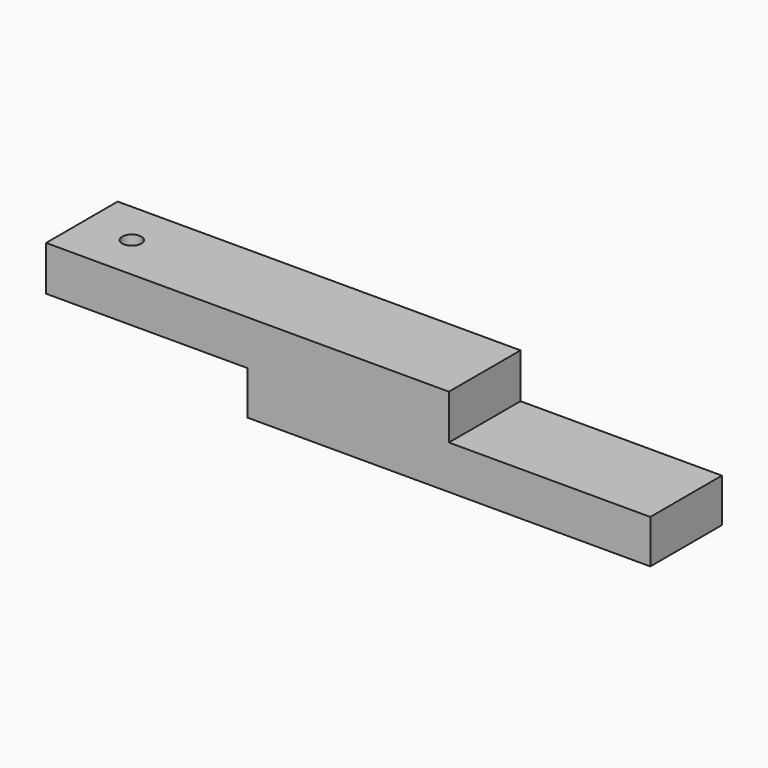
from build123d import *

# Parameters (mm, degrees)
F1_DEPTH = 12.7
F2_R     = 1.353731
F3_DEPTH = 50.8


with BuildPart() as f1:
    # F0 (on Front) → F1 (new body)
    with BuildSketch(Plane.XZ):
        Polygon((38.97683, 29.645005), (-18.17317, 29.645005), (-18.17317, 23.295005), (10.40183, 23.295005), (38.97683, 23.295005), align=None)
        Polygon((67.55183, 23.295005), (38.97683, 23.295005), (10.40183, 23.295005), (10.40183, 17.107827), (67.55183, 17.107827), align=None)
    extrude(amount=F1_DEPTH)

    # F2 (on Top) → F3 (cut)
    with BuildSketch(Plane.XY):
        with Locations((-11.172788, -6.245584)):
            Circle(F2_R)
    extrude(amount=F3_DEPTH, mode=Mode.SUBTRACT)


solid = f1.part
